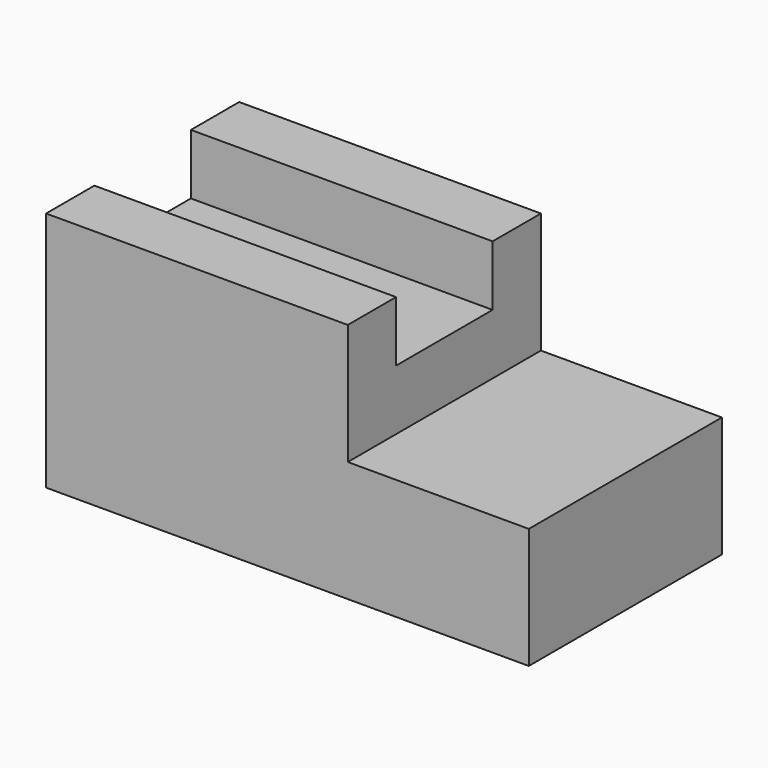
from build123d import *

# Parameters (mm, degrees)
F0_W     = 203.2
F0_H     = 101.6
F1_DEPTH = 101.6
F2_W     = 76.2
F2_H     = 101.6
F3_DEPTH = 50.8
F4_W     = 127
F4_H     = 50.8
F5_DEPTH = 25.4


with BuildPart() as f1:
    # F0 (on Front) → F1 (new body)
    with BuildSketch(Plane.XZ):
        with Locations((4.342319, 12.05778)):
            Rectangle(F0_W, F0_H)
    extrude(amount=F1_DEPTH)

    # F2 (on face) → F3 (cut)
    with BuildSketch(Plane.XY.offset(62.85778)):
        with Locations((67.842319, -50.8)):
            Rectangle(F2_W, F2_H)
    extrude(amount=-F3_DEPTH, mode=Mode.SUBTRACT)

    # F4 (on face) → F5 (cut)
    with BuildSketch(Plane.XY.offset(62.85778)):
        with Locations((-33.757681, -50.8)):
            Rectangle(F4_W, F4_H)
    extrude(amount=-F5_DEPTH, mode=Mode.SUBTRACT)


solid = f1.part
